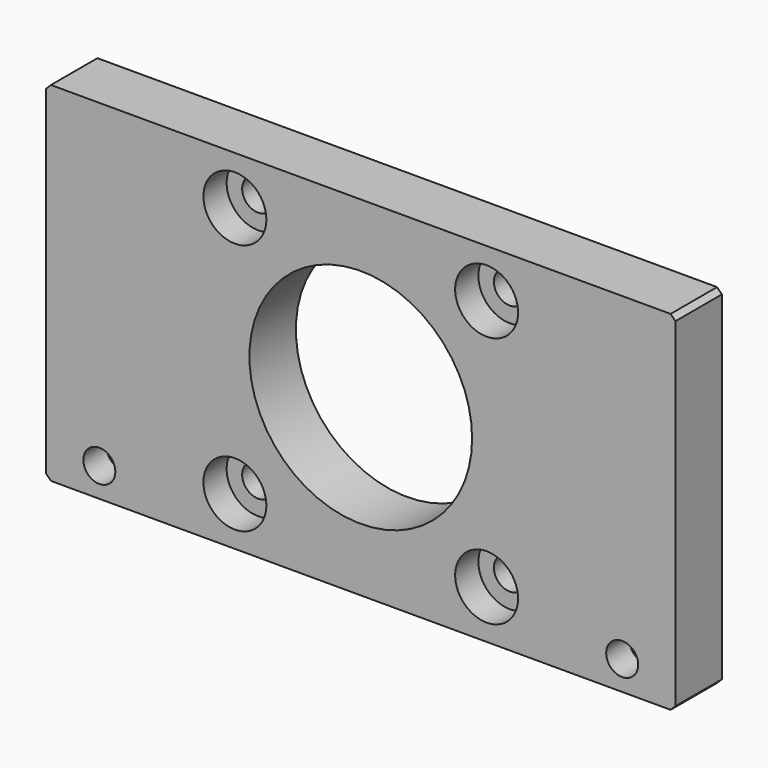
from build123d import *

# Parameters (mm, degrees)
F0_W           = 65
F0_H           = 36
F0_R           = 11.5
F1_DEPTH       = 6
F3_D           = 3.3
F3_CBORE_D     = 6.5
F3_CBORE_DEPTH = 3
F4_SIZE        = 0.5
F6_D           = 3.3
F6_CBORE_D     = 6.5
F6_CBORE_DEPTH = 3


with BuildPart() as f1:
    # F0 (on Front) → F1 (new body)
    with BuildSketch(Plane.XZ):
        Rectangle(F0_W, F0_H)
        Circle(F0_R, mode=Mode.SUBTRACT)
    extrude(amount=F1_DEPTH)

    # F3 (through all)
    with Locations(Plane.XZ.offset(6)):
        with Locations((13, 13), (13, -13), (-13, -13), (-13, 13)):
            CounterBoreHole(F3_D / 2, F3_CBORE_D / 2, F3_CBORE_DEPTH)

    # F4
    f4_edges = [f1.edges().sort_by_distance(p)[0] for p in [
        (-32.5, -3, 18),
        (32.5, -3, 18),
        (32.5, -3, -18),
        (-32.5, -3, -18),
    ]]
    chamfer(f4_edges, length=F4_SIZE)

    # F6 (through all)
    with Locations(Plane(origin=(0, 0, 0), x_dir=(-1, 0, 0), z_dir=(0, 1, 0))):
        with Locations((-27, -15), (27, -15)):
            CounterBoreHole(F6_D / 2, F6_CBORE_D / 2, F6_CBORE_DEPTH)


solid = f1.part
